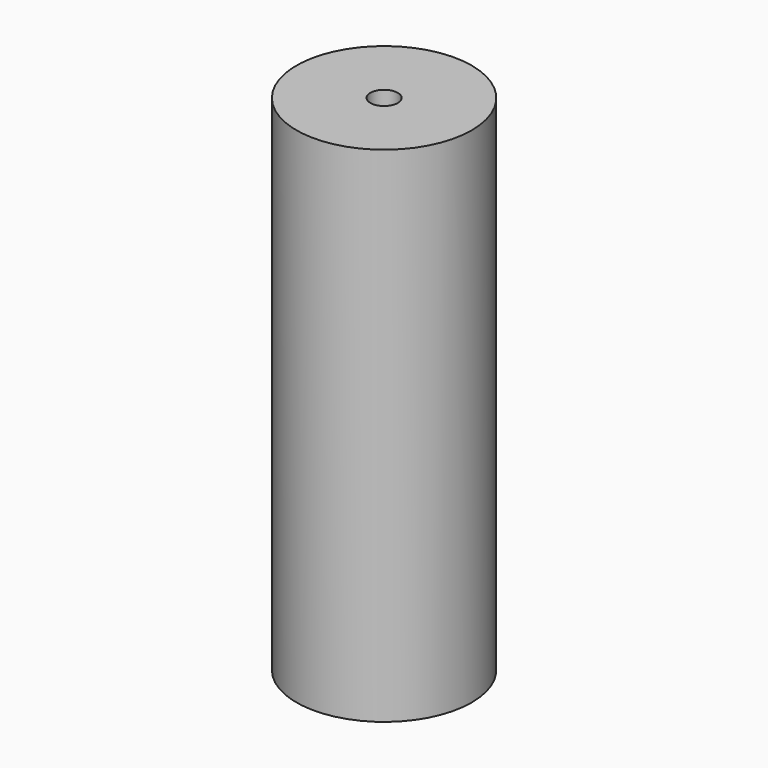
from build123d import *

# Parameters (mm, degrees)
F0_R     = 19.142135
F0_R_2   = 14.142135
F1_DEPTH = 100
F2_R     = 19.142135
F2_R_2   = 3
F3_DEPTH = 10


with BuildPart() as f1:
    # F0 (on Top) → F1 (new body)
    with BuildSketch(Plane.XY):
        Circle(F0_R)
        Circle(F0_R_2, mode=Mode.SUBTRACT)
        Circle(F0_R)
        Circle(F0_R_2, mode=Mode.SUBTRACT)
    extrude(amount=F1_DEPTH)

    # F2 (on face) → F3 (join)
    with BuildSketch(Plane.XY.offset(100)):
        Circle(F2_R)
        Circle(F2_R_2, mode=Mode.SUBTRACT)
    extrude(amount=F3_DEPTH)


solid = f1.part
